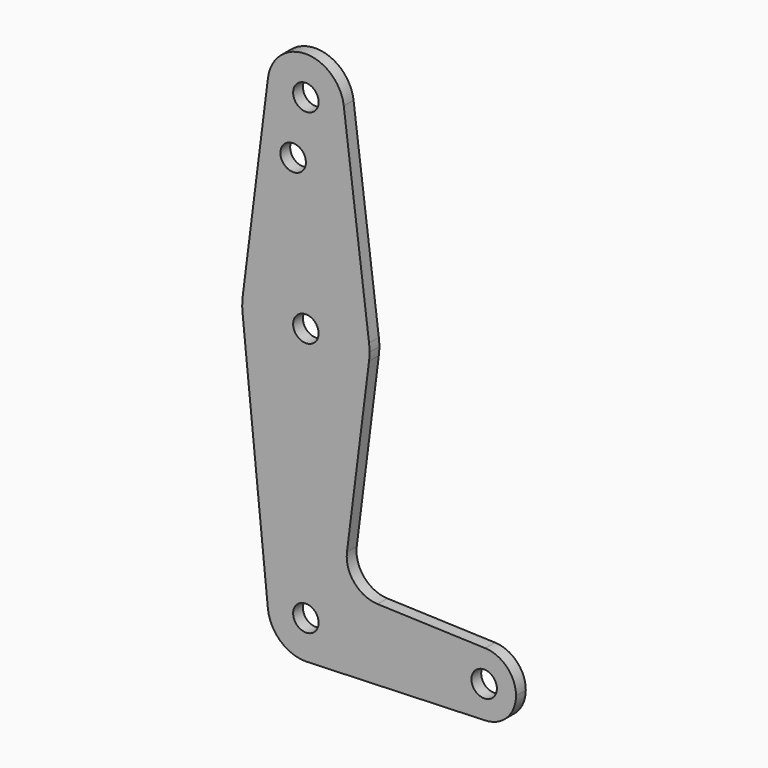
from build123d import *

# Parameters (mm, degrees)
F0_R     = 3.175
F1_DEPTH = 3.048


with BuildPart() as f1:
    # F0 (on Front) → F1 (new body)
    with BuildSketch(Plane.XZ):
        with BuildLine():
            Line((-9.450293, 115.490625), (-15.750488, 65.484375))
            ThreePointArc((-15.750488, 65.484375), (0, 79.375), (15.750488, 65.484375))
            Line((15.750488, 65.484375), (9.450293, 115.490625))
            ThreePointArc((9.450293, 115.490625), (9.506305, 114.896483), (9.525, 114.3))
            ThreePointArc((9.525, 114.3), (-0.596483, 104.793695), (-9.450293, 115.490625))
        make_face()
        with Locations((-3.175, 100.0252)):
            Circle(F0_R, mode=Mode.SUBTRACT)
        with BuildLine():
            ThreePointArc((9.450293, 115.490625), (0, 123.825), (-9.450293, 115.490625))
            ThreePointArc((-9.450293, 115.490625), (-0.596483, 104.793695), (9.525, 114.3))
            ThreePointArc((9.525, 114.3), (9.506305, 114.896483), (9.450293, 115.490625))
        make_face()
        with Locations((0, 114.3)):
            Circle(F0_R, mode=Mode.SUBTRACT)
        with BuildLine():
            ThreePointArc((-15.750488, 65.484375), (-15.873744, 63.699705), (-15.795426, 61.9125))
            ThreePointArc((-15.795426, 61.9125), (-0.199705, 47.626256), (15.750488, 61.515625))
            ThreePointArc((15.750488, 61.515625), (15.843841, 62.505861), (15.875, 63.5))
            ThreePointArc((15.875, 63.5), (15.843841, 64.494139), (15.750488, 65.484375))
            ThreePointArc((15.750488, 65.484375), (0, 79.375), (-15.750488, 65.484375))
        make_face()
        with Locations((0, 63.5)):
            Circle(F0_R, mode=Mode.SUBTRACT)
        with BuildLine():
            ThreePointArc((-9.477255, -0.9525), (-0.476848, 9.513056), (9.525, 0))
            ThreePointArc((9.525, 0), (6.970557, -6.491299), (0.677344, -9.500886))
            Line((0.677344, -9.500886), (44.732405, -7.932475))
            ThreePointArc((44.732405, -7.932475), (36.5125, 0), (44.732405, 7.932475))
            Line((44.732405, 7.932475), (17.851404, 8.889469))
            ThreePointArc((17.851404, 8.889469), (12.078994, 11.682994), (10.246417, 17.828411))
            Line((10.246417, 17.828411), (15.750488, 61.515625))
            ThreePointArc((15.750488, 61.515625), (-0.199705, 47.626256), (-15.795426, 61.9125))
            Line((-15.795426, 61.9125), (-9.477255, -0.9525))
        make_face()
        with BuildLine():
            ThreePointArc((44.732405, 7.932475), (36.5125, 0), (44.732405, -7.932475))
            ThreePointArc((44.732405, -7.932475), (50.161633, -5.51191), (52.3875, 0))
            ThreePointArc((52.3875, 0), (50.161633, 5.51191), (44.732405, 7.932475))
        make_face()
        with Locations((44.45, 0)):
            Circle(F0_R, mode=Mode.SUBTRACT)
        with BuildLine():
            ThreePointArc((0.677344, -9.500886), (6.970557, -6.491299), (9.525, 0))
            ThreePointArc((9.525, 0), (-0.476848, 9.513056), (-9.477255, -0.9525))
            ThreePointArc((-9.477255, -0.9525), (-6.389564, -7.063929), (0, -9.525))
            Line((0, -9.525), (0.677344, -9.500886))
        make_face()
        Circle(F0_R, mode=Mode.SUBTRACT)
    extrude(amount=F1_DEPTH)


solid = f1.part
